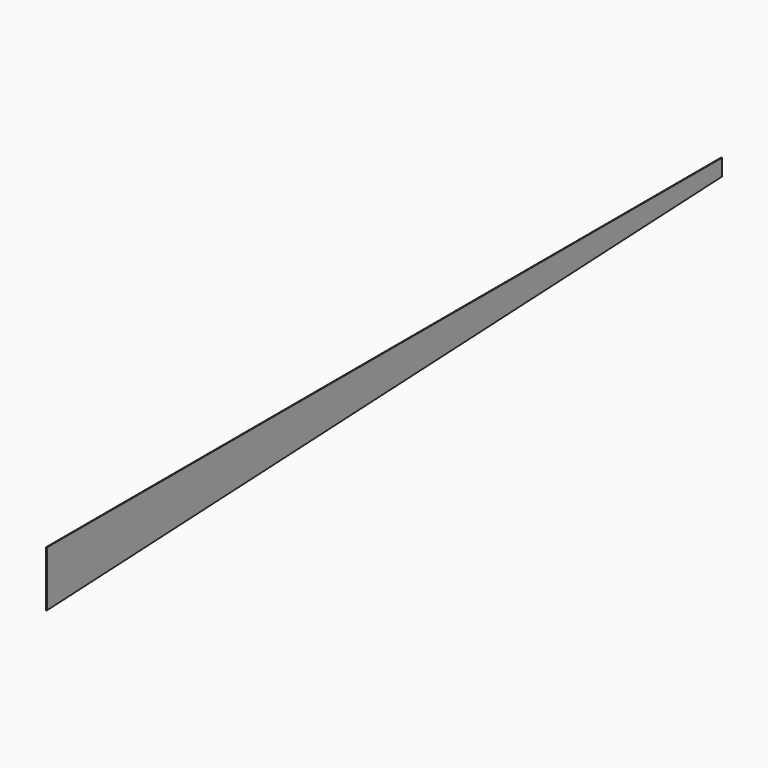
from build123d import *

# Parameters (mm, degrees)
F1_DEPTH = 3.175


with BuildPart() as f1:
    # F0 (on Right) → F1 (new body)
    with BuildSketch(Plane.YZ):
        Polygon((3670.3, 0), (0, 0), (0, -241.3), (3670.3, -72.23125), align=None)
    extrude(amount=F1_DEPTH)


with BuildPart() as f2_1:
    # F2: copy of F1
    add(f1.part)


solid = Compound([f1.part, f2_1.part])
